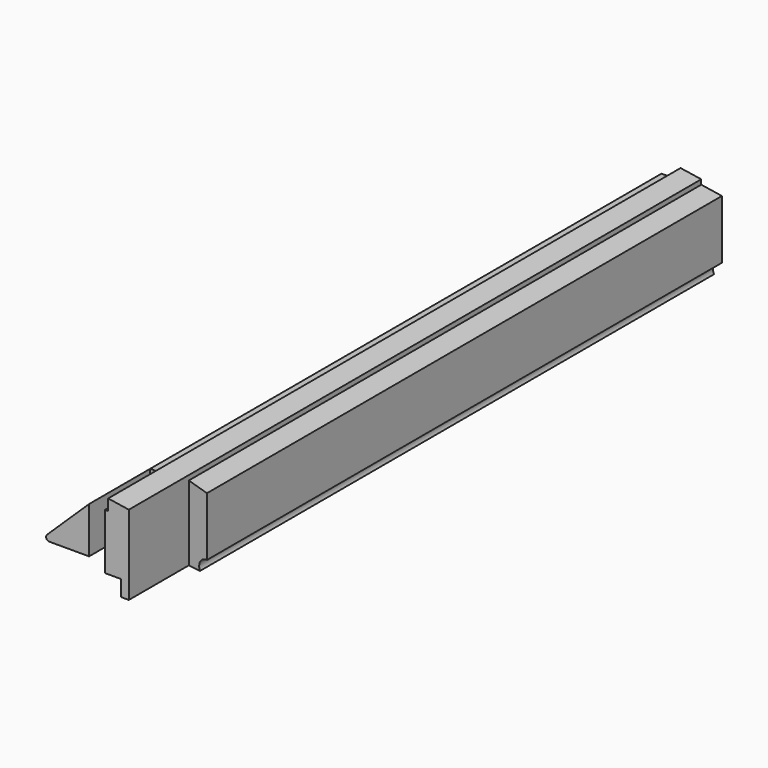
from build123d import *

# Parameters (mm, degrees)
PAD005_DEPTH    = 450
POCKET002_DEPTH = 60
SKETCH011_W     = 10
SKETCH011_H     = 48
POCKET003_DEPTH = 60


with BuildPart() as part:
    # Sketch008 → Pad005 (new body)
    with BuildSketch(Plane.ZX):
        with BuildLine():
            Line((0, 0), (0, 12))
            Line((0, 12), (7, 12))
            Line((7, 12), (5, 25))
            Line((5, 25), (2, 25))
            Line((2, 25), (0, 38))
            Line((0, 38), (-37, 38))
            ThreePointArc((-45, 33), (-39.614381, 33.283009), (-37, 38))
            Line((-45, 33), (-45, 20))
            Line((-45, 20), (-35, 20))
            Line((-35, 20), (-35, 10))
            Line((-35, 10), (-29, 10))
            Line((-29, 10), (-29, -25.053428))
            ThreePointArc((-29, -25.053428), (-27.749682, -26.907606), (-25.562023, -26.443472))
            Line((-25.562023, -26.443472), (0, 0))
        make_face()
    extrude(amount=PAD005_DEPTH)

    # Sketch010 → Pocket002 (cut)
    with BuildSketch(Plane.XY.offset(10)):
        Polygon((25, 0), (25, 47.153846), (39, 45), (39, 0), align=None)
    extrude(amount=-POCKET002_DEPTH, mode=Mode.SUBTRACT)

    # Sketch011 → Pocket003 (cut)
    with BuildSketch(Plane.XY.offset(10)):
        with Locations((5, 24)):
            Rectangle(SKETCH011_W, SKETCH011_H)
    extrude(amount=-POCKET003_DEPTH, mode=Mode.SUBTRACT)


solid = part.part
